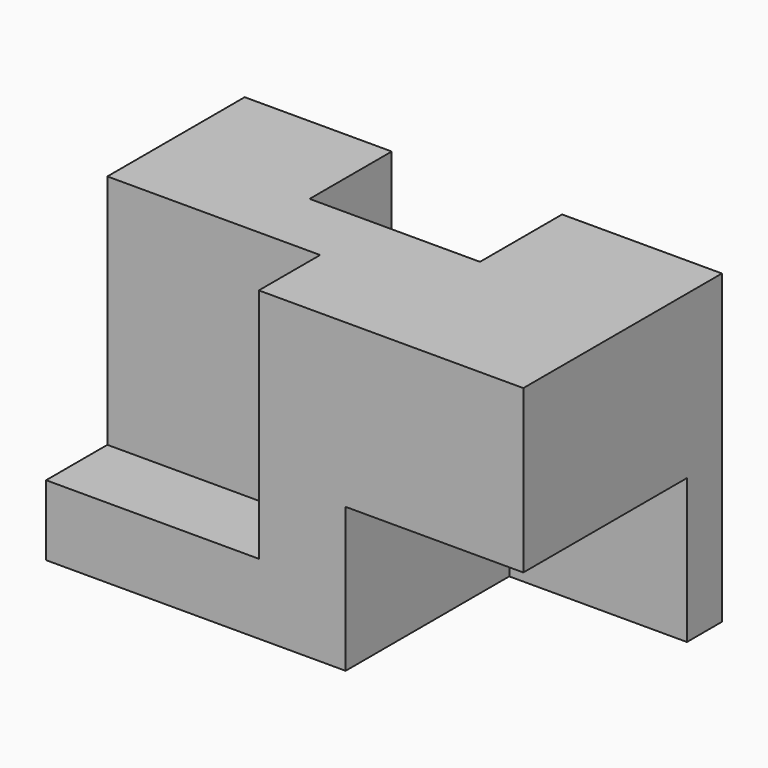
from build123d import *

# Parameters (mm, degrees)
F0_W     = 56.007
F0_H     = 29.1338
F2_DEPTH = 35.9918
F3_W     = 19.9962444603
F3_H     = 12.0468917788
F4_DEPTH = 24.003
F5_W     = 20.8534
F5_H     = 16.9418
F7_DEPTH = 24.003
F8_DEPTH = 8.9916


with BuildPart() as f2:
    # F0 (on Top) → F2 (new body)
    with BuildSketch(Plane.XY):
        with Locations((-28.0035, 14.5669)):
            Rectangle(F0_W, F0_H)
    extrude(amount=F2_DEPTH)

    # F3 (on face) → F4 (cut)
    with BuildSketch(Plane.XY.offset(35.9918)):
        with Locations((-28.7540312856, 23.1103541106)):
            Rectangle(F3_W, F3_H)
    extrude(amount=-F4_DEPTH, mode=Mode.SUBTRACT)

    # F5 (on face) → F7 (cut)
    with BuildSketch(Plane.XZ):
        with Locations((-10.4267, 8.4709)):
            Rectangle(F5_W, F5_H)
    extrude(amount=-F7_DEPTH, mode=Mode.SUBTRACT)

    # F5 (on face) → F8 (cut)
    with BuildSketch(Plane.XZ):
        Polygon((-56.007, 35.9918), (-56.007, 8.2625951707), (-31.0388, 8.2625951707), (-31.0388, 24.003), (-31.0388, 35.9918), align=None)
    extrude(amount=-F8_DEPTH, mode=Mode.SUBTRACT)


solid = f2.part
